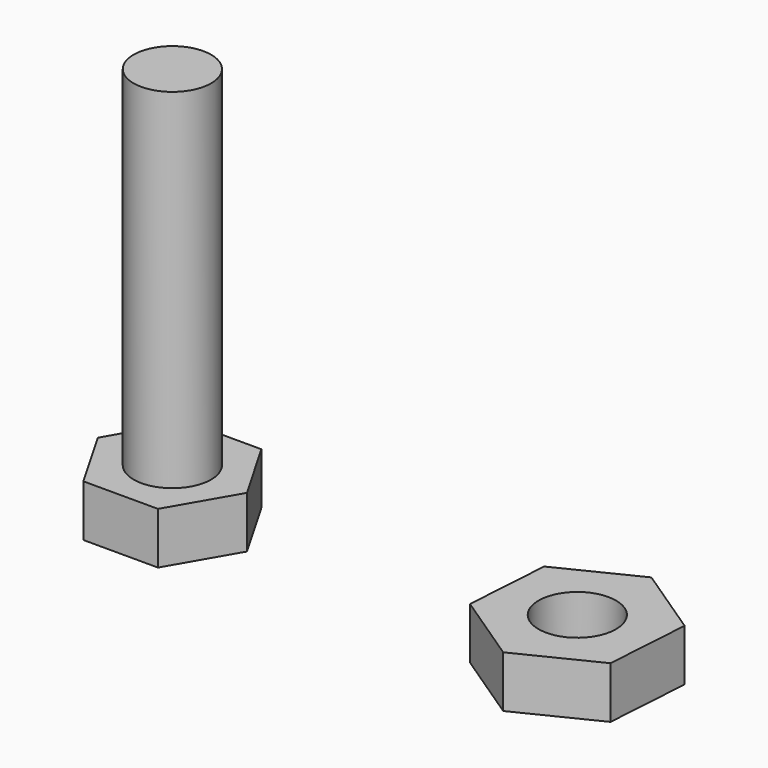
from build123d import *

# Parameters (mm, degrees)
F0_R     = 3
F1_DEPTH = 31
F2_DEPTH = 4
F3_DEPTH = 4


with BuildPart() as f1:
    # F0 (on Top) → F1 (new body)
    with BuildSketch(Plane.XY):
        Circle(F0_R)
    extrude(amount=F1_DEPTH)

    # F0 (on Top) → F2 (join)
    with BuildSketch(Plane.XY):
        Polygon((2.886751, 5), (-2.886751, 5), (-5.773503, 0), (-2.886751, -5), (2.886751, -5), (5.773503, 0), align=None)
        Circle(F0_R, mode=Mode.SUBTRACT)
    extrude(amount=F2_DEPTH)

    # F0 (on Top) → F3 (join)
    with BuildSketch(Plane.XY):
        Polygon((2.886751, 5), (-2.886751, 5), (-5.773503, 0), (-2.886751, -5), (2.886751, -5), (5.773503, 0), align=None)
        Circle(F0_R, mode=Mode.SUBTRACT)
        Polygon((37.294861, 2.937114), (31.77397, 6.625351), (25.819417, 3.688237), (25.385756, -2.937114), (30.906647, -6.625351), (36.8612, -3.688237), align=None)
        with Locations((31.340308, 0)):
            Circle(F0_R, mode=Mode.SUBTRACT)
    extrude(amount=F3_DEPTH)


solid = f1.part
